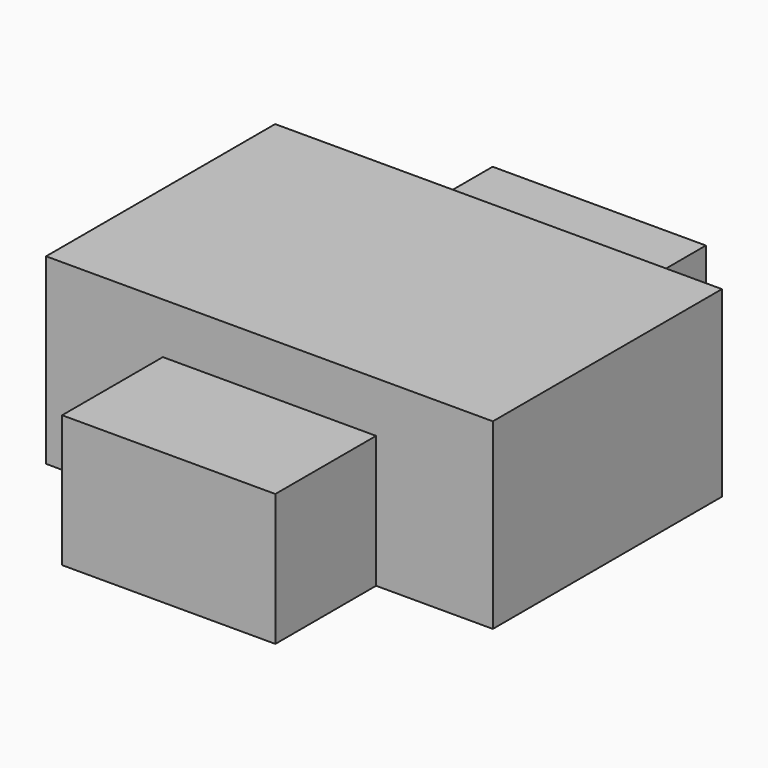
from build123d import *

# Parameters (mm, degrees)
F0_W     = 105
F0_H     = 265
F1_DEPTH = 65
F2_W     = 151
F2_H     = 97
F3_DEPTH = 52
F4_W     = 220
F4_H     = 141
F5_DEPTH = 90
F6_W     = 127
F6_H     = 101
F7_DEPTH = 30


with BuildPart() as f1:
    # F0 (on Top) → F1 (new body)
    with BuildSketch(Plane.XY):
        Rectangle(F0_W, F0_H)
    extrude(amount=F1_DEPTH)


with BuildPart() as f3:
    # F2 (on Top) → F3 (new body)
    with BuildSketch(Plane.XY):
        Rectangle(F2_W, F2_H)
    extrude(amount=F3_DEPTH)


with BuildPart() as f5:
    # F4 (on Top) → F5 (new body)
    with BuildSketch(Plane.XY):
        Rectangle(F4_W, F4_H)
    extrude(amount=F5_DEPTH)


with BuildPart() as f7:
    # F6 (on Top) → F7 (new body)
    with BuildSketch(Plane.XY):
        Rectangle(F6_W, F6_H)
    extrude(amount=F7_DEPTH)


solid = Compound([f1.part, f3.part, f5.part, f7.part])
